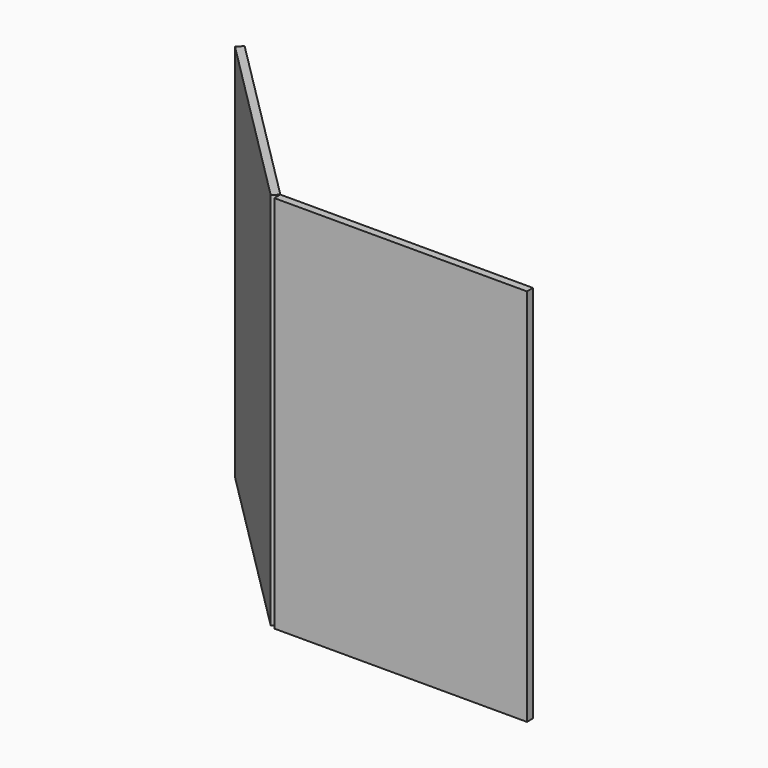
from build123d import *

# Parameters (mm, degrees)
F0_W     = 1000
F0_H     = 30
F1_DEPTH = 1500


with BuildPart() as f1:
    # F0 (on Top) → F1 (new body)
    with BuildSketch(Plane.XY):
        with Locations((343.096574, -243.842466)):
            Rectangle(F0_W, F0_H)
        Polygon((-178.11663, -250.05567), (-156.903426, -228.842466), (-864.010207, 478.264315), (-885.223411, 457.051111), align=None)
    extrude(amount=F1_DEPTH)


solid = f1.part
